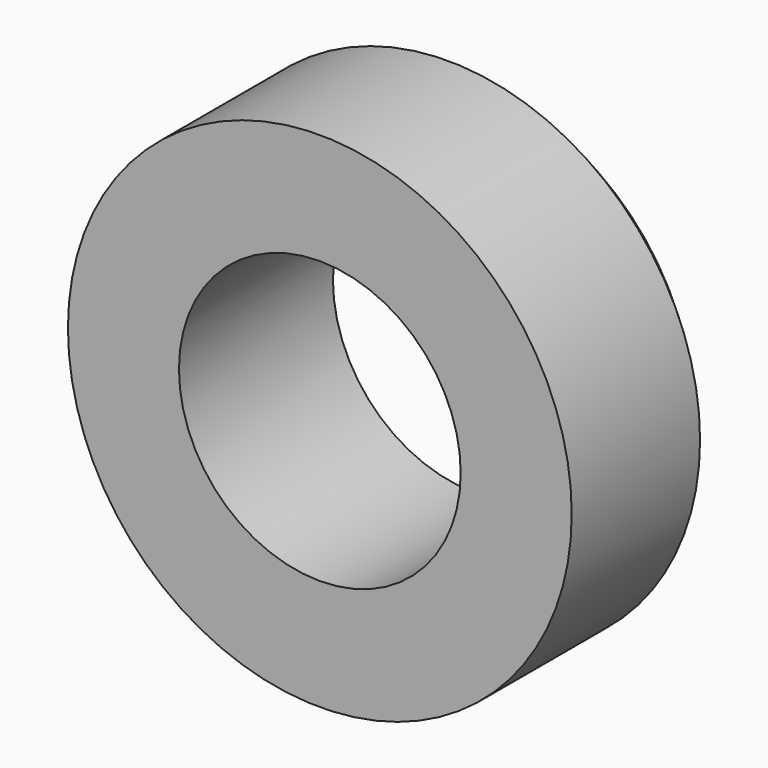
from build123d import *

# Parameters (mm, degrees)
F0_R     = 7.85
F2_DEPTH = 6
F3_D     = 8.78
F4_SIZE  = 1


with BuildPart() as f2:
    # F0 (on Front) → F2 (new body)
    with BuildSketch(Plane.XZ):
        Circle(F0_R)
    extrude(amount=F2_DEPTH)

    # F3 (through all)
    with Locations(Plane(origin=(0, 0, 0), x_dir=(1, 0, 0), z_dir=(0, 1, 0))):
        with Locations((0, 0)):
            Hole(F3_D / 2)

    # F4
    f4_edges = [f2.edges().sort_by_distance(p)[0] for p in [
        (-7.85, 0, 0),
    ]]
    chamfer(f4_edges, length=F4_SIZE)


solid = f2.part
